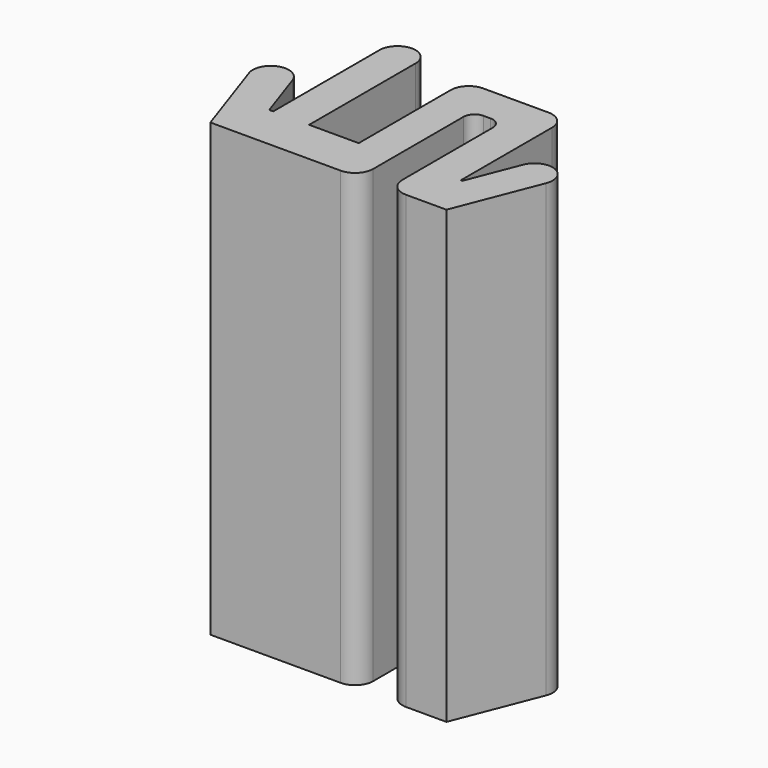
from build123d import *

# Parameters (mm, degrees)
PAD_DEPTH = 20


with BuildPart() as part:
    # Sketch → Pad (new body)
    with BuildSketch(Plane.XY):
        with BuildLine():
            Line((5.140364, 1.2), (6.594756, 4.907874))
            ThreePointArc((6.594756, 4.907874), (6.142126, 5.944756), (5.105244, 5.492126))
            Line((4.218492, 3.231414), (5.105244, 5.492126))
            Line((4.15, 3.231414), (4.218492, 3.231414))
            Line((4.15, 8.3), (4.15, 3.231414))
            ThreePointArc((4.15, 8.3), (3.915685, 8.865685), (3.35, 9.1))
            Line((0.45, 9.1), (3.35, 9.1))
            ThreePointArc((0.45, 9.1), (-0.115685, 8.865685), (-0.35, 8.3))
            Line((-0.35, 3.199929), (-0.35, 8.3))
            Line((-2.55, 3.199929), (-0.35, 3.199929))
            Line((-2.55, 9.1), (-2.55, 3.199929))
            ThreePointArc((-2.55, 9.1), (-3.35, 9.9), (-4.15, 9.1))
            Line((-4.15, 3.208053), (-4.15, 9.1))
            Line((-4.325596, 3.208053), (-4.15, 3.208053))
            Line((-5.092804, 5.458176), (-4.325596, 3.208053))
            ThreePointArc((-5.092804, 5.458176), (-6.108176, 5.957196), (-6.607196, 4.941824))
            Line((-5.331372, 1.2), (-6.607196, 4.941824))
            Line((-5.331372, 1.2), (0.449979, 1.199852))
            ThreePointArc((0.449979, 1.199852), (1.015678, 1.434159), (1.25, 1.999852))
            Line((1.25, 1.999852), (1.25, 7.009087))
            ThreePointArc((1.740913, 7.5), (1.393785, 7.356215), (1.25, 7.009087))
            Line((1.740913, 7.5), (2.059087, 7.5))
            ThreePointArc((2.55, 7.009087), (2.406215, 7.356215), (2.059087, 7.5))
            Line((2.55, 7.009087), (2.55, 1.99987))
            ThreePointArc((2.55, 1.99987), (2.784335, 1.434164), (3.350058, 1.19987))
            Line((3.350058, 1.19987), (5.140364, 1.2))
        make_face()
    extrude(amount=PAD_DEPTH)


solid = part.part
